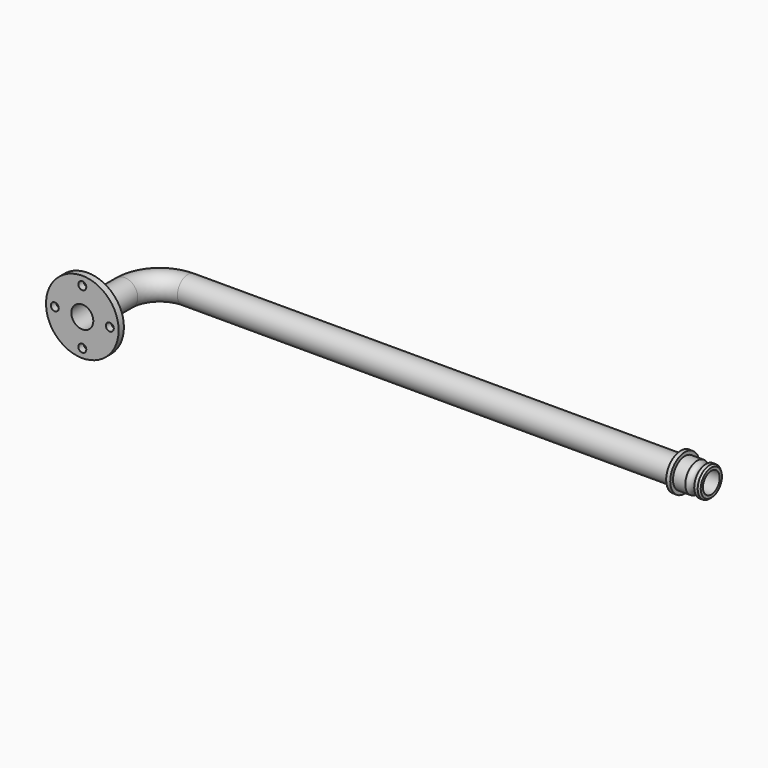
from build123d import *

# Parameters (mm, degrees)
F1_R     = 30
F1_R_2   = 25
F3_R     = 82.5
F3_R_2   = 9
F3_R_3   = 25
F4_DEPTH = 15


with BuildPart() as f2:
    # F2: sweep along a path in F0
    with BuildLine(Plane.XY) as f2_path:
        Line((0, 0), (-1120, 0))
        ThreePointArc((-1120, 0), (-1176.5685424949, -23.4314575051), (-1200, -80))
        Line((-1200, -80), (-1200, -200))
    # F1 (on Right) → F2 (sweep)
    with BuildSketch(Plane.YZ):
        Circle(F1_R)
        Circle(F1_R_2, mode=Mode.SUBTRACT)
    sweep(path=f2_path.line)

    # F3 (on face) → F4 (join)
    with BuildSketch(Plane.XZ.offset(200)):
        with Locations((-1200, 0)):
            Circle(F3_R)
        with Locations((-1200, -62.5)):
            Circle(F3_R_2, mode=Mode.SUBTRACT)
        with Locations((-1262.5, 0)):
            Circle(F3_R_2, mode=Mode.SUBTRACT)
        with Locations((-1200, 0)):
            Circle(F3_R_3, mode=Mode.SUBTRACT)
        with Locations((-1137.5, 0)):
            Circle(F3_R_2, mode=Mode.SUBTRACT)
        with Locations((-1200, 62.5)):
            Circle(F3_R_2, mode=Mode.SUBTRACT)
    extrude(amount=-F4_DEPTH)

    # F5 (on Front) → F6 (revolve)
    with BuildSketch(Plane.XZ):
        with BuildLine():
            Line((0, 30), (0, 23.7858332694))
            Line((0, 23.7858332694), (69.3580582738, 23.7858332694))
            Line((69.3580582738, 23.7858332694), (69.3580582738, 30.1174111664))
            Line((69.3580582738, 30.1174111664), (65.3128772974, 33.6349532008))
            Line((65.3128772974, 33.6349532008), (57.3984086514, 33.6349532008))
            ThreePointArc((57.3984086514, 33.6349532008), (47.2854711115, 27.8227466971), (37.1725335717, 33.6349532008))
            Line((37.1725335717, 33.6349532008), (9.208066389, 33.6349532008))
            Line((9.208066389, 33.6349532008), (9.208066389, 41.5494255722))
            Line((9.208066389, 41.5494255722), (0, 41.5494255722))
            Line((0, 41.5494255722), (0, 30))
        make_face()
    revolve(axis=Axis((0, 0, 0), (-1, 0, 0)))


solid = f2.part
